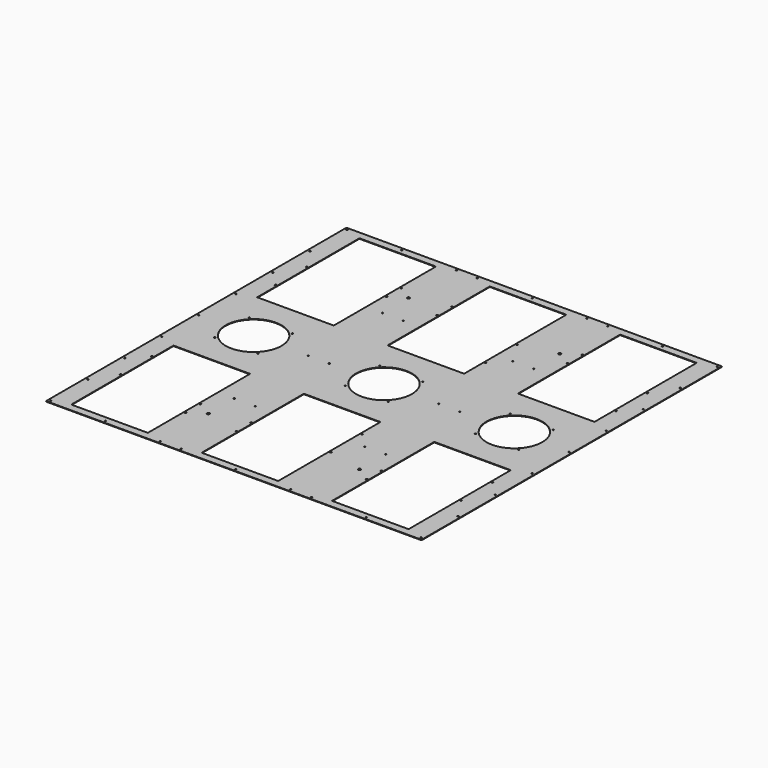
from build123d import *

# Parameters (mm, degrees)
F0_W     = 914.4
F0_H     = 914.4
F0_R     = 1.5875
F0_R_2   = 2.1
F0_R_3   = 3.15
F0_R_4   = 1.65
F0_R_5   = 68
F1_DEPTH = 1.27


with BuildPart() as f1:
    # F0 (on Top) → F1 (new body)
    with BuildSketch(Plane.XY):
        with Locations((-14.713987, 60.998162)):
            Rectangle(F0_W, F0_H)
        with Locations((-465.563987, -389.851838)):
            Circle(F0_R, mode=Mode.SUBTRACT)
        with Locations((-332.213987, -389.851838)):
            Circle(F0_R, mode=Mode.SUBTRACT)
        with Locations((-465.563987, -277.139338)):
            Circle(F0_R, mode=Mode.SUBTRACT)
        with Locations((-429.083987, -222.338838)):
            Circle(F0_R_2, mode=Mode.SUBTRACT)
        Polygon((-238.995987, -66.763838), (-238.995987, -377.151838), (-238.995987, -377.558238), (-425.431987, -377.558238), (-425.431987, -377.151838), (-425.431987, -66.763838), (-425.431987, -66.357438), (-238.995987, -66.357438), align=None, mode=Mode.SUBTRACT)
        with Locations((-198.863987, -389.851838)):
            Circle(F0_R, mode=Mode.SUBTRACT)
        with Locations((-148.063987, -389.851838)):
            Circle(F0_R, mode=Mode.SUBTRACT)
        with Locations((-235.343987, -267.338838)):
            Circle(F0_R_2, mode=Mode.SUBTRACT)
        with Locations((-198.863987, -243.801838)):
            Circle(F0_R_3, mode=Mode.SUBTRACT)
        with Locations((-235.343987, -222.338838)):
            Circle(F0_R_2, mode=Mode.SUBTRACT)
        with Locations((-111.583987, -267.338838)):
            Circle(F0_R_2, mode=Mode.SUBTRACT)
        with Locations((-111.583987, -222.338838)):
            Circle(F0_R_2, mode=Mode.SUBTRACT)
        Polygon((-107.931987, -66.763838), (-107.931987, -66.357438), (78.504013, -66.357438), (78.504013, -66.763838), (78.504013, -377.151838), (78.504013, -377.558238), (-107.931987, -377.558238), (-107.931987, -377.151838), align=None, mode=Mode.SUBTRACT)
        with Locations((-465.563987, -164.426838)):
            Circle(F0_R, mode=Mode.SUBTRACT)
        with Locations((-429.083987, -127.338838)):
            Circle(F0_R_2, mode=Mode.SUBTRACT)
        with Locations((-465.563987, -51.714338)):
            Circle(F0_R, mode=Mode.SUBTRACT)
        with Locations((-465.563987, 60.998162)):
            Circle(F0_R, mode=Mode.SUBTRACT)
        with Locations((-384.713987, 8.498162)):
            Circle(F0_R_4, mode=Mode.SUBTRACT)
        with Locations((-279.713987, 8.498162)):
            Circle(F0_R_4, mode=Mode.SUBTRACT)
        with Locations((-198.863987, -164.426838)):
            Circle(F0_R, mode=Mode.SUBTRACT)
        with Locations((-148.063987, -164.426838)):
            Circle(F0_R, mode=Mode.SUBTRACT)
        with Locations((-198.863987, 60.998162)):
            Circle(F0_R, mode=Mode.SUBTRACT)
        with Locations((-148.063987, 60.998162)):
            Circle(F0_R, mode=Mode.SUBTRACT)
        with Locations((-67.213987, 8.498162)):
            Circle(F0_R_4, mode=Mode.SUBTRACT)
        with Locations((-14.713987, -389.851838)):
            Circle(F0_R, mode=Mode.SUBTRACT)
        with Locations((118.636013, -389.851838)):
            Circle(F0_R, mode=Mode.SUBTRACT)
        with Locations((169.436013, -389.851838)):
            Circle(F0_R, mode=Mode.SUBTRACT)
        with Locations((82.156013, -222.338838)):
            Circle(F0_R_2, mode=Mode.SUBTRACT)
        with Locations((205.916013, -267.338838)):
            Circle(F0_R_2, mode=Mode.SUBTRACT)
        with Locations((169.436013, -243.801838)):
            Circle(F0_R_3, mode=Mode.SUBTRACT)
        with Locations((205.916013, -222.338838)):
            Circle(F0_R_2, mode=Mode.SUBTRACT)
        with Locations((302.786013, -389.851838)):
            Circle(F0_R, mode=Mode.SUBTRACT)
        with Locations((436.136013, -389.851838)):
            Circle(F0_R, mode=Mode.SUBTRACT)
        Polygon((209.568013, -377.558238), (209.568013, -377.151838), (209.568013, -66.763838), (209.568013, -66.357438), (396.004013, -66.357438), (396.004013, -66.763838), (396.004013, -377.151838), (396.004013, -377.558238), align=None, mode=Mode.SUBTRACT)
        with Locations((436.136013, -277.139338)):
            Circle(F0_R, mode=Mode.SUBTRACT)
        with Locations((399.656013, -222.338838)):
            Circle(F0_R_2, mode=Mode.SUBTRACT)
        with Locations((82.156013, -127.338838)):
            Circle(F0_R_2, mode=Mode.SUBTRACT)
        with Locations((118.636013, -164.426838)):
            Circle(F0_R, mode=Mode.SUBTRACT)
        with Locations((169.436013, -164.426838)):
            Circle(F0_R, mode=Mode.SUBTRACT)
        with Locations((37.786013, 8.498162)):
            Circle(F0_R_4, mode=Mode.SUBTRACT)
        with Locations((436.136013, -164.426838)):
            Circle(F0_R, mode=Mode.SUBTRACT)
        with Locations((399.656013, -127.338838)):
            Circle(F0_R_2, mode=Mode.SUBTRACT)
        with Locations((250.286013, 8.498162)):
            Circle(F0_R_4, mode=Mode.SUBTRACT)
        with Locations((436.136013, -51.714338)):
            Circle(F0_R, mode=Mode.SUBTRACT)
        with Locations((355.286013, 8.498162)):
            Circle(F0_R_4, mode=Mode.SUBTRACT)
        with Locations((-384.713987, 113.498162)):
            Circle(F0_R_4, mode=Mode.SUBTRACT)
        with Locations((-465.563987, 173.710662)):
            Circle(F0_R, mode=Mode.SUBTRACT)
        with Locations((-332.213987, 60.998162)):
            Circle(F0_R_5, mode=Mode.SUBTRACT)
        with Locations((-279.713987, 113.498162)):
            Circle(F0_R_4, mode=Mode.SUBTRACT)
        with Locations((-429.083987, 249.335162)):
            Circle(F0_R_2, mode=Mode.SUBTRACT)
        with Locations((-465.563987, 286.423162)):
            Circle(F0_R, mode=Mode.SUBTRACT)
        with Locations((-14.713987, 60.998162)):
            Circle(F0_R_5, mode=Mode.SUBTRACT)
        with Locations((-67.213987, 113.498162)):
            Circle(F0_R_4, mode=Mode.SUBTRACT)
        with Locations((-198.863987, 286.423162)):
            Circle(F0_R, mode=Mode.SUBTRACT)
        with Locations((-148.063987, 286.423162)):
            Circle(F0_R, mode=Mode.SUBTRACT)
        with Locations((-429.083987, 344.335162)):
            Circle(F0_R_2, mode=Mode.SUBTRACT)
        with Locations((-465.563987, 399.135662)):
            Circle(F0_R, mode=Mode.SUBTRACT)
        Polygon((-238.995987, 499.554562), (-238.995987, 499.148162), (-238.995987, 188.760162), (-238.995987, 188.353762), (-425.431987, 188.353762), (-425.431987, 188.760162), (-425.431987, 499.148162), (-425.431987, 499.554562), align=None, mode=Mode.SUBTRACT)
        with Locations((-465.563987, 511.848162)):
            Circle(F0_R, mode=Mode.SUBTRACT)
        with Locations((-332.213987, 511.848162)):
            Circle(F0_R, mode=Mode.SUBTRACT)
        with Locations((-235.343987, 344.335162)):
            Circle(F0_R_2, mode=Mode.SUBTRACT)
        with Locations((-198.863987, 365.798162)):
            Circle(F0_R_3, mode=Mode.SUBTRACT)
        with Locations((-235.343987, 389.335162)):
            Circle(F0_R_2, mode=Mode.SUBTRACT)
        with Locations((-111.583987, 344.335162)):
            Circle(F0_R_2, mode=Mode.SUBTRACT)
        Polygon((78.504013, 499.554562), (78.504013, 499.148162), (78.504013, 188.760162), (78.504013, 188.353762), (-107.931987, 188.353762), (-107.931987, 188.760162), (-107.931987, 499.148162), (-107.931987, 499.554562), align=None, mode=Mode.SUBTRACT)
        with Locations((-111.583987, 389.335162)):
            Circle(F0_R_2, mode=Mode.SUBTRACT)
        with Locations((-198.863987, 511.848162)):
            Circle(F0_R, mode=Mode.SUBTRACT)
        with Locations((-148.063987, 511.848162)):
            Circle(F0_R, mode=Mode.SUBTRACT)
        with Locations((37.786013, 113.498162)):
            Circle(F0_R_4, mode=Mode.SUBTRACT)
        with Locations((118.636013, 60.998162)):
            Circle(F0_R, mode=Mode.SUBTRACT)
        with Locations((169.436013, 60.998162)):
            Circle(F0_R, mode=Mode.SUBTRACT)
        with Locations((82.156013, 249.335162)):
            Circle(F0_R_2, mode=Mode.SUBTRACT)
        with Locations((118.636013, 286.423162)):
            Circle(F0_R, mode=Mode.SUBTRACT)
        with Locations((169.436013, 286.423162)):
            Circle(F0_R, mode=Mode.SUBTRACT)
        with Locations((250.286013, 113.498162)):
            Circle(F0_R_4, mode=Mode.SUBTRACT)
        with Locations((302.786013, 60.998162)):
            Circle(F0_R_5, mode=Mode.SUBTRACT)
        with Locations((355.286013, 113.498162)):
            Circle(F0_R_4, mode=Mode.SUBTRACT)
        with Locations((436.136013, 60.998162)):
            Circle(F0_R, mode=Mode.SUBTRACT)
        with Locations((436.136013, 173.710662)):
            Circle(F0_R, mode=Mode.SUBTRACT)
        with Locations((399.656013, 249.335162)):
            Circle(F0_R_2, mode=Mode.SUBTRACT)
        with Locations((436.136013, 286.423162)):
            Circle(F0_R, mode=Mode.SUBTRACT)
        with Locations((82.156013, 344.335162)):
            Circle(F0_R_2, mode=Mode.SUBTRACT)
        with Locations((205.916013, 344.335162)):
            Circle(F0_R_2, mode=Mode.SUBTRACT)
        with Locations((169.436013, 365.798162)):
            Circle(F0_R_3, mode=Mode.SUBTRACT)
        with Locations((205.916013, 389.335162)):
            Circle(F0_R_2, mode=Mode.SUBTRACT)
        with Locations((-14.713987, 511.848162)):
            Circle(F0_R, mode=Mode.SUBTRACT)
        with Locations((118.636013, 511.848162)):
            Circle(F0_R, mode=Mode.SUBTRACT)
        with Locations((169.436013, 511.848162)):
            Circle(F0_R, mode=Mode.SUBTRACT)
        Polygon((209.568013, 188.760162), (209.568013, 499.148162), (209.568013, 499.554562), (396.004013, 499.554562), (396.004013, 499.148162), (396.004013, 188.760162), (396.004013, 188.353762), (209.568013, 188.353762), align=None, mode=Mode.SUBTRACT)
        with Locations((399.656013, 344.335162)):
            Circle(F0_R_2, mode=Mode.SUBTRACT)
        with Locations((436.136013, 399.135662)):
            Circle(F0_R, mode=Mode.SUBTRACT)
        with Locations((302.786013, 511.848162)):
            Circle(F0_R, mode=Mode.SUBTRACT)
        with Locations((436.136013, 511.848162)):
            Circle(F0_R, mode=Mode.SUBTRACT)
    extrude(amount=F1_DEPTH)


solid = f1.part
